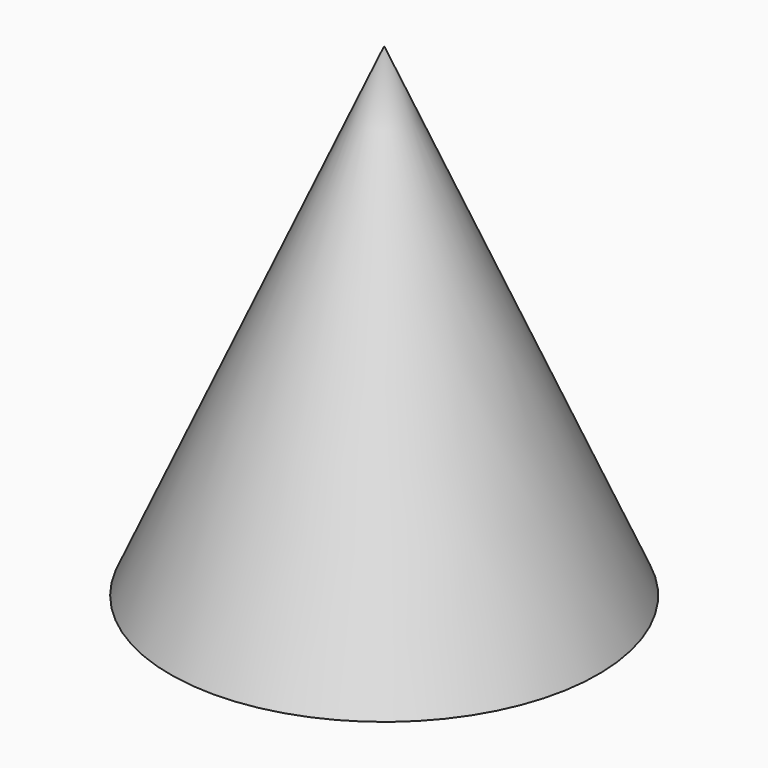
from build123d import *


with BuildPart() as f1:
    # F0 (on Right) → F1 (revolve)
    with BuildSketch(Plane.YZ):
        Polygon((-6.35, 0), (0, 0), (0, 14.351), align=None)
    revolve(axis=Axis((0, 0, 7.1755), (0, 0, 1)))


solid = f1.part
